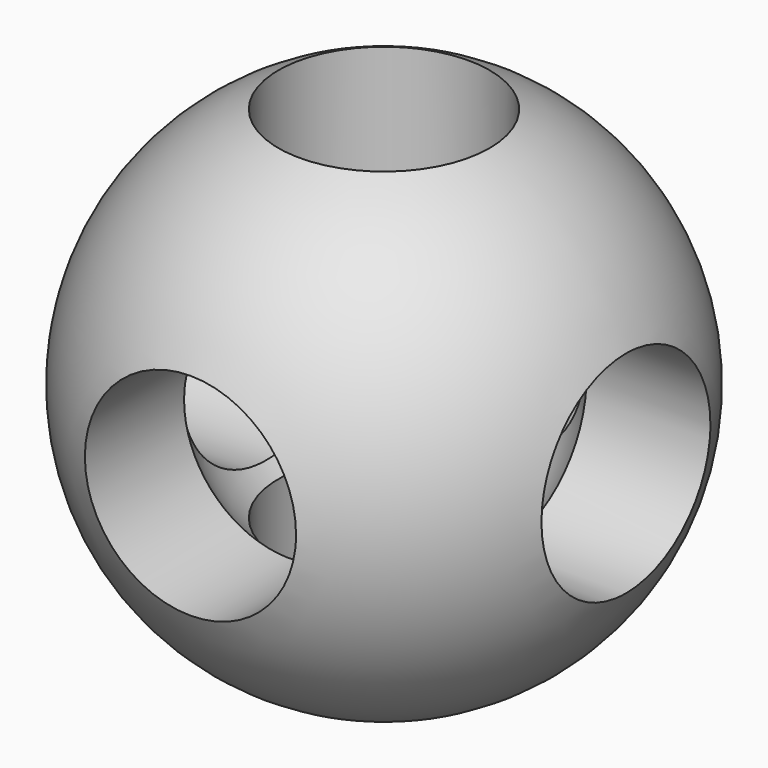
from build123d import *

# Parameters (mm, degrees)
F4_R     = 9.525
F5_DEPTH = 29.36875
F6_R     = 9.525
F7_DEPTH = 29.36875
F8_R     = 9.525
F9_DEPTH = 29.36875


with BuildPart() as f1:
    # F0 (on Front) → F1 (revolve)
    with BuildSketch(Plane.XZ):
        with BuildLine():
            Line((0, 23.8125), (0, -23.8125))
            ThreePointArc((0, -23.8125), (23.8125, 0), (0, 23.8125))
        make_face()
    revolve(axis=Axis((0, 0, 0), (0, 0, -1)))

    # F2 (on Front) → F3 (revolve, cut)
    with BuildSketch(Plane.XZ):
        with BuildLine():
            Line((0, 14.28115), (0, -14.28115))
            ThreePointArc((0, -14.28115), (14.28115, 0), (0, 14.28115))
        make_face()
    revolve(axis=Axis((0, 0, 0), (0, 0, -1)), mode=Mode.SUBTRACT)

    # F4 (on Front) → F5 (cut, symmetric)
    with BuildSketch(Plane.XZ):
        Circle(F4_R)
    extrude(amount=F5_DEPTH, both=True, mode=Mode.SUBTRACT)

    # F6 (on Right) → F7 (cut, symmetric)
    with BuildSketch(Plane.YZ):
        Circle(F6_R)
    extrude(amount=F7_DEPTH, both=True, mode=Mode.SUBTRACT)

    # F8 (on Top) → F9 (cut, symmetric)
    with BuildSketch(Plane.XY):
        Circle(F8_R)
    extrude(amount=F9_DEPTH, both=True, mode=Mode.SUBTRACT)


solid = f1.part
